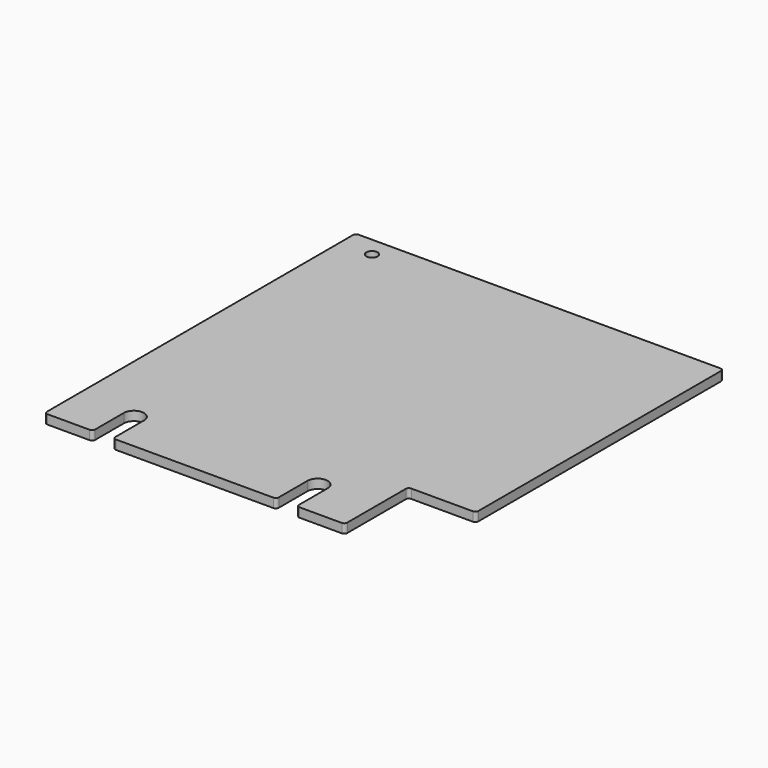
from build123d import *

# Parameters (mm, degrees)
SKETCH_R  = 1.8288
PAD_DEPTH = 3


with BuildPart() as part:
    # Sketch → Pad (new body)
    with BuildSketch(Plane.XY):
        with BuildLine():
            Line((0, 126), (0, 1))
            ThreePointArc((0, 1), (0.292893, 0.292893), (1, 0))
            Line((1, 0), (14.748, 0))
            ThreePointArc((14.748, 0), (15.455107, 0.292893), (15.748, 1))
            Line((15.748, 12.7), (15.748, 1))
            ThreePointArc((22.352, 12.7), (19.05, 16.002), (15.748, 12.7))
            Line((22.352, 12.7), (22.352, 1))
            ThreePointArc((22.352, 1), (22.644893, 0.292893), (23.352, 0))
            Line((23.352, 0), (74.748, 0))
            ThreePointArc((74.748, 0), (75.455107, 0.292893), (75.748, 1))
            Line((75.748, 12.7), (75.748, 1))
            ThreePointArc((82.352, 12.7), (79.05, 16.002), (75.748, 12.7))
            Line((82.352, 12.7), (82.352, 1))
            ThreePointArc((82.352, 1), (82.644893, 0.292893), (83.352, 0))
            Line((83.352, 0), (97.1, 0))
            ThreePointArc((97.1, 0), (97.807107, 0.292893), (98.1, 1))
            Line((98.1, 1), (98.1, 24.9))
            ThreePointArc((99.1, 25.9), (98.392893, 25.607107), (98.1, 24.9))
            Line((99.1, 25.9), (119.2001, 25.9))
            ThreePointArc((119.2001, 25.9), (119.907207, 26.192893), (120.2001, 26.9))
            Line((120.2001, 26.9), (120.2001, 126))
            ThreePointArc((120.2001, 126), (119.907207, 126.707107), (119.2001, 127))
            Line((119.2001, 127), (1, 127))
            ThreePointArc((1, 127), (0.292893, 126.707107), (0, 126))
        make_face()
        with Locations((10.46, 120.65)):
            Circle(SKETCH_R, mode=Mode.SUBTRACT)
    extrude(amount=PAD_DEPTH)


solid = part.part
